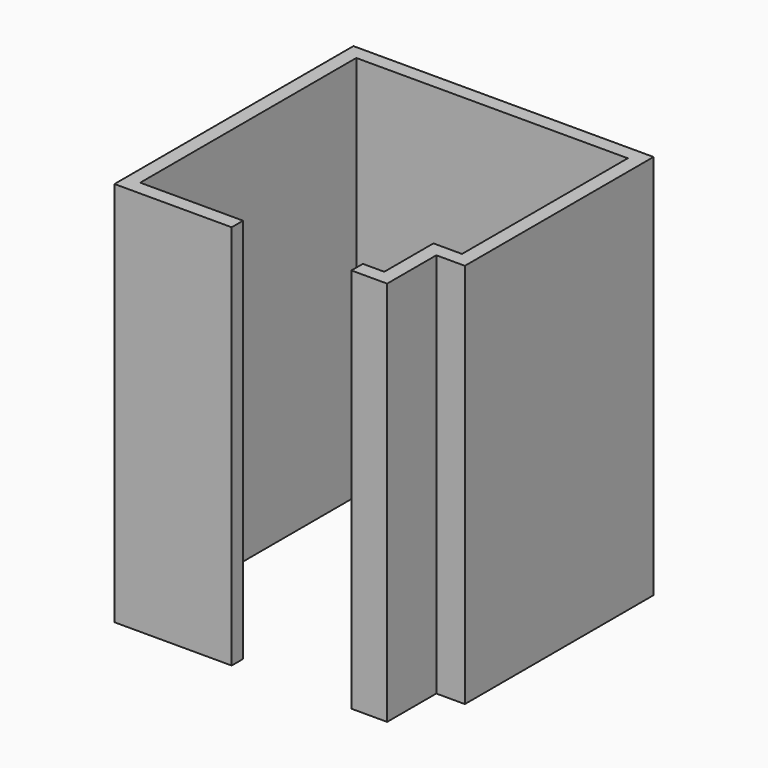
from build123d import *

# Parameters (mm, degrees)
F1_DEPTH = 2700


with BuildPart() as f1:
    # F0 (on Top) → F1 (new body)
    with BuildSketch(Plane.XY):
        Polygon((0, -100), (0, 0), (-720, 0), (-720, 1890), (1180, 1890), (1180, 440), (980, 440), (980, 10), (830, 10), (830, -90), (1080, -90), (1080, 340), (1280, 340), (1280, 1990), (-820, 1990), (-820, -100), align=None)
    extrude(amount=F1_DEPTH)


solid = f1.part
